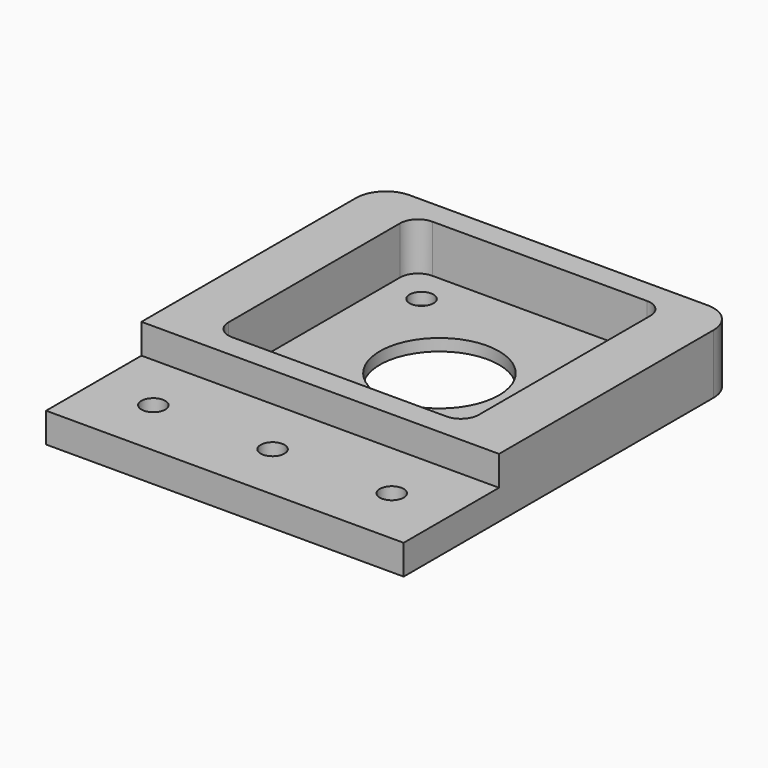
from build123d import *

# Parameters (mm, degrees)
CYLINDER007_R     = 10
CYLINDER007_DEPTH = 10
CYLINDER006_R     = 2
CYLINDER006_DEPTH = 10
CYLINDER005_R     = 2
CYLINDER005_DEPTH = 10
CYLINDER004_R     = 2
CYLINDER004_DEPTH = 10
CYLINDER003_R     = 2
CYLINDER003_DEPTH = 10
BOX002_W          = 42
BOX002_H          = 42
BOX002_DEPTH      = 10
CYLINDER002_R     = 2
CYLINDER002_DEPTH = 10
CYLINDER001_R     = 2
CYLINDER001_DEPTH = 10
CYLINDER_R        = 2
CYLINDER_DEPTH    = 10
BOX001_W          = 60
BOX001_H          = 20
BOX001_DEPTH      = 10
BOX_W             = 60
BOX_H             = 70
BOX_DEPTH         = 10
FILLET_R          = 5
FILLET001_R       = 5
FILLET002_R       = 3


with BuildPart() as cylinder007:
    # Cylinder007 → Cylinder007 (new body)
    with BuildSketch(Plane(origin=(30, 45, -1), x_dir=(1, 0, 0), z_dir=(0, 0, 1))):
        Circle(CYLINDER007_R)
    extrude(amount=CYLINDER007_DEPTH)


with BuildPart() as cylinder006:
    # Cylinder006 → Cylinder006 (new body)
    with BuildSketch(Plane(origin=(45, 30, -1), x_dir=(1, 0, 0), z_dir=(0, 0, 1))):
        Circle(CYLINDER006_R)
    extrude(amount=CYLINDER006_DEPTH)


with BuildPart() as cylinder005:
    # Cylinder005 → Cylinder005 (new body)
    with BuildSketch(Plane(origin=(45, 60, -1), x_dir=(1, 0, 0), z_dir=(0, 0, 1))):
        Circle(CYLINDER005_R)
    extrude(amount=CYLINDER005_DEPTH)


with BuildPart() as cylinder004:
    # Cylinder004 → Cylinder004 (new body)
    with BuildSketch(Plane(origin=(15, 60, -1), x_dir=(1, 0, 0), z_dir=(0, 0, 1))):
        Circle(CYLINDER004_R)
    extrude(amount=CYLINDER004_DEPTH)


with BuildPart() as cylinder003:
    # Cylinder003 → Cylinder003 (new body)
    with BuildSketch(Plane(origin=(15, 30, -1), x_dir=(1, 0, 0), z_dir=(0, 0, 1))):
        Circle(CYLINDER003_R)
    extrude(amount=CYLINDER003_DEPTH)


with BuildPart() as cube002:
    # Box002 → Box002 (new body)
    with BuildSketch(Plane(origin=(9, 24, 2), x_dir=(1, 0, 0), z_dir=(0, 0, 1))):
        with Locations((21, 21)):
            Rectangle(BOX002_W, BOX002_H)
    extrude(amount=BOX002_DEPTH)


with BuildPart() as cylinder002:
    # Cylinder002 → Cylinder002 (new body)
    with BuildSketch(Plane(origin=(50, 10, -1), x_dir=(1, 0, 0), z_dir=(0, 0, 1))):
        Circle(CYLINDER002_R)
    extrude(amount=CYLINDER002_DEPTH)


with BuildPart() as cylinder001:
    # Cylinder001 → Cylinder001 (new body)
    with BuildSketch(Plane(origin=(30, 10, -1), x_dir=(1, 0, 0), z_dir=(0, 0, 1))):
        Circle(CYLINDER001_R)
    extrude(amount=CYLINDER001_DEPTH)


with BuildPart() as cylinder:
    # Cylinder → Cylinder (new body)
    with BuildSketch(Plane(origin=(10, 10, -1), x_dir=(1, 0, 0), z_dir=(0, 0, 1))):
        Circle(CYLINDER_R)
    extrude(amount=CYLINDER_DEPTH)


with BuildPart() as cube001:
    # Box001 → Box001 (new body)
    with BuildSketch(Plane.XY.offset(5)):
        with Locations((30, 10)):
            Rectangle(BOX001_W, BOX001_H)
    extrude(amount=BOX001_DEPTH)


with BuildPart() as obj1:
    # Box → Box (new body)
    with BuildSketch(Plane.XY):
        with Locations((30, 35)):
            Rectangle(BOX_W, BOX_H)
    extrude(amount=BOX_DEPTH)

    # Cut: cut Cube001
    add(cube001.part, mode=Mode.SUBTRACT)

    # Cut001: cut Cylinder
    add(cylinder.part, mode=Mode.SUBTRACT)

    # Cut002: cut Cylinder001
    add(cylinder001.part, mode=Mode.SUBTRACT)

    # Cut003: cut Cylinder002
    add(cylinder002.part, mode=Mode.SUBTRACT)

    # Cut004: cut Cube002
    add(cube002.part, mode=Mode.SUBTRACT)

    # Cut005: cut Cylinder003
    add(cylinder003.part, mode=Mode.SUBTRACT)

    # Cut006: cut Cylinder004
    add(cylinder004.part, mode=Mode.SUBTRACT)

    # Cut007: cut Cylinder005
    add(cylinder005.part, mode=Mode.SUBTRACT)

    # Cut008: cut Cylinder006
    add(cylinder006.part, mode=Mode.SUBTRACT)

    # Fillet
    fillet_edges = [obj1.edges().sort_by_distance(p)[0] for p in [
        (0, 70, 5),
    ]]
    fillet(fillet_edges, radius=FILLET_R)

    # Fillet001
    fillet001_edges = [obj1.edges().sort_by_distance(p)[0] for p in [
        (60, 70, 5),
    ]]
    fillet(fillet001_edges, radius=FILLET001_R)

    # Fillet002
    fillet002_edges = [obj1.edges().sort_by_distance(p)[0] for p in [
        (51, 24, 6),
        (9, 24, 6),
        (51, 66, 6),
        (9, 66, 6),
    ]]
    fillet(fillet002_edges, radius=FILLET002_R)

    # Cut009: cut Cylinder007
    add(cylinder007.part, mode=Mode.SUBTRACT)


solid = obj1.part
